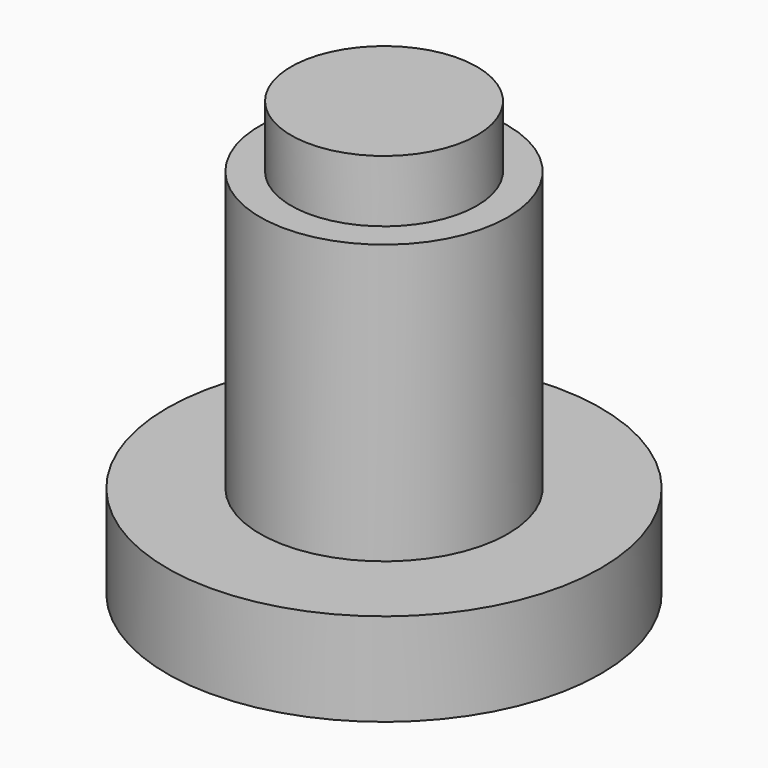
from build123d import *

# Parameters (mm, degrees)
F0_R     = 9.525
F1_DEPTH = 88.9
F2_W     = 19.05
F2_H     = 12.7


with BuildPart() as f1:
    # F0 (on Top) → F1 (new body)
    with BuildSketch(Plane.XY):
        Circle(F0_R)
    extrude(amount=F1_DEPTH)

    # F2 (on Front) → F3 (revolve)
    with BuildSketch(Plane.XZ):
        Polygon((0, 19.05), (0, 0), (44.45, 0), (44.45, 19.05), (25.4, 19.05), align=None)
        Polygon((0, 76.2), (0, 19.05), (25.4, 19.05), (25.4, 76.2), (19.05, 76.2), align=None)
        with Locations((9.525, 82.55)):
            Rectangle(F2_W, F2_H)
    revolve(axis=Axis((0, 0, 0), (0, 0, -1)))


solid = f1.part
